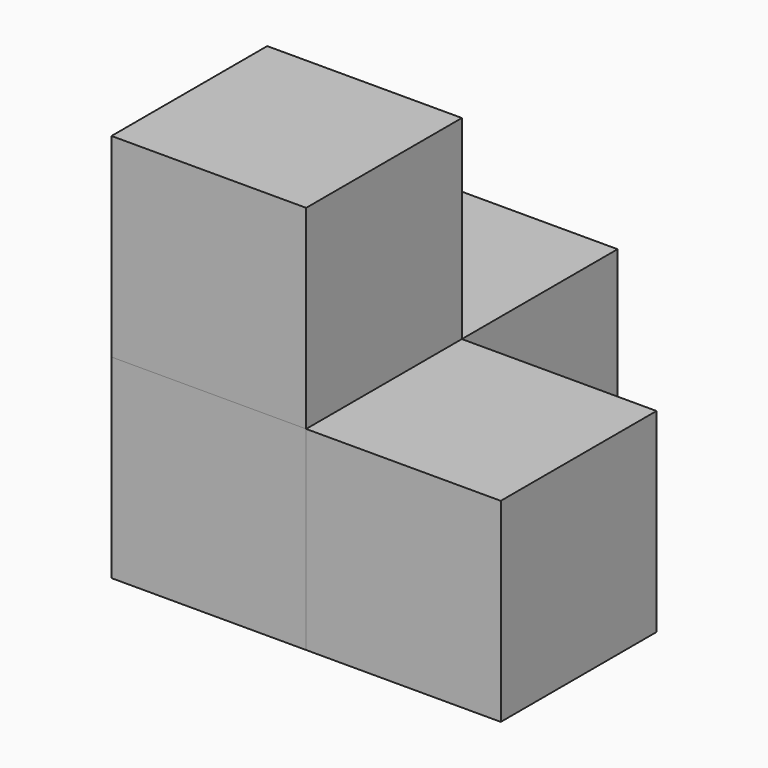
from build123d import *

# Parameters (mm, degrees)
BOX_W        = 10
BOX_H        = 10
BOX_DEPTH    = 10
BOX001_W     = 10
BOX001_H     = 10
BOX001_DEPTH = 10
BOX003_W     = 10
BOX003_H     = 10
BOX003_DEPTH = 10
BOX004_W     = 10
BOX004_H     = 10
BOX004_DEPTH = 10


with BuildPart() as cub:
    # Box → Box (new body)
    with BuildSketch(Plane.XY):
        with Locations((5, 5)):
            Rectangle(BOX_W, BOX_H)
    extrude(amount=BOX_DEPTH)


with BuildPart() as cub001:
    # Box001 → Box001 (new body)
    with BuildSketch(Plane.XY.offset(10)):
        with Locations((5, 5)):
            Rectangle(BOX001_W, BOX001_H)
    extrude(amount=BOX001_DEPTH)


with BuildPart() as cub003:
    # Box003 → Box003 (new body)
    with BuildSketch(Plane(origin=(0, 10, 0), x_dir=(1, 0, 0), z_dir=(0, 0, 1))):
        with Locations((5, 5)):
            Rectangle(BOX003_W, BOX003_H)
    extrude(amount=BOX003_DEPTH)


with BuildPart() as cub004:
    # Box004 → Box004 (new body)
    with BuildSketch(Plane(origin=(10, 0, 0), x_dir=(1, 0, 0), z_dir=(0, 0, 1))):
        with Locations((5, 5)):
            Rectangle(BOX004_W, BOX004_H)
    extrude(amount=BOX004_DEPTH)


solid = Compound([cub.part, cub001.part, cub003.part, cub004.part])
